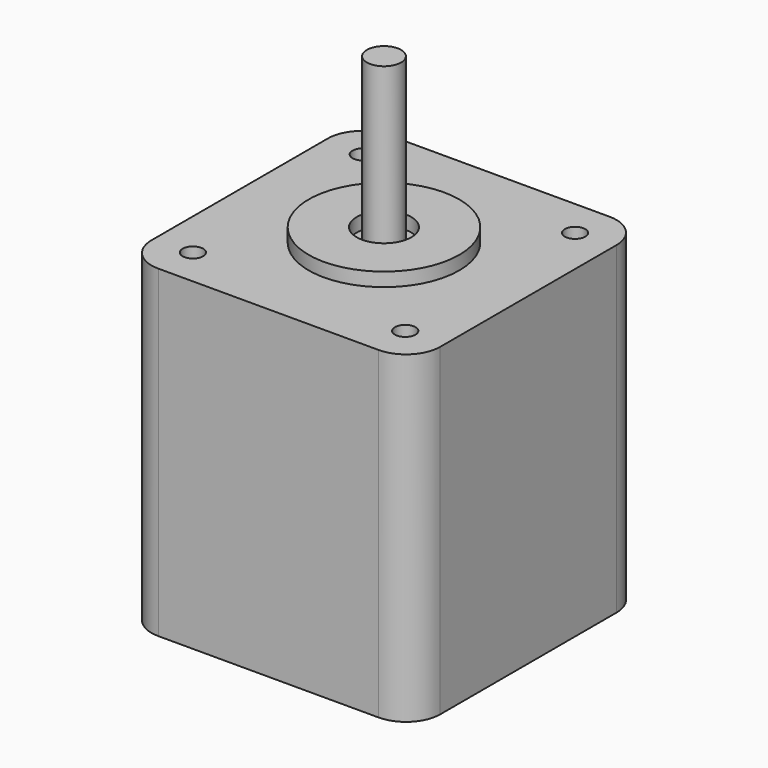
from build123d import *

# Parameters (mm, degrees)
F0_R     = 1.5
F1_DEPTH = 47.3
F2_R     = 11
F2_R_2   = 4
F3_DEPTH = 2
F4_R     = 2.5
F5_DEPTH = 24


with BuildPart() as f1:
    # F0 (on Top) → F1 (new body)
    with BuildSketch(Plane.XY):
        with BuildLine():
            Line((16.1, 21.1), (-16.1, 21.1))
            ThreePointArc((-16.1, 21.1), (-19.635534, 19.635534), (-21.1, 16.1))
            Line((-21.1, 16.1), (-21.1, -16.1))
            ThreePointArc((-21.1, -16.1), (-19.635534, -19.635534), (-16.1, -21.1))
            Line((-16.1, -21.1), (16.1, -21.1))
            ThreePointArc((16.1, -21.1), (19.635534, -19.635534), (21.1, -16.1))
            Line((21.1, -16.1), (21.1, 16.1))
            ThreePointArc((21.1, 16.1), (19.635534, 19.635534), (16.1, 21.1))
        make_face()
        with Locations((-15.52, -15.52)):
            Circle(F0_R, mode=Mode.SUBTRACT)
        with Locations((15.52, -15.52)):
            Circle(F0_R, mode=Mode.SUBTRACT)
        with Locations((-15.52, 15.52)):
            Circle(F0_R, mode=Mode.SUBTRACT)
        with Locations((15.52, 15.52)):
            Circle(F0_R, mode=Mode.SUBTRACT)
    extrude(amount=F1_DEPTH)

    # F2 (on face) → F3 (join)
    with BuildSketch(Plane.XY.offset(47.3)):
        Circle(F2_R)
        Circle(F2_R_2, mode=Mode.SUBTRACT)
    extrude(amount=F3_DEPTH)

    # F4 (on face) → F5 (join)
    with BuildSketch(Plane.XY.offset(47.3)):
        Circle(F4_R)
    extrude(amount=F5_DEPTH)


solid = f1.part
